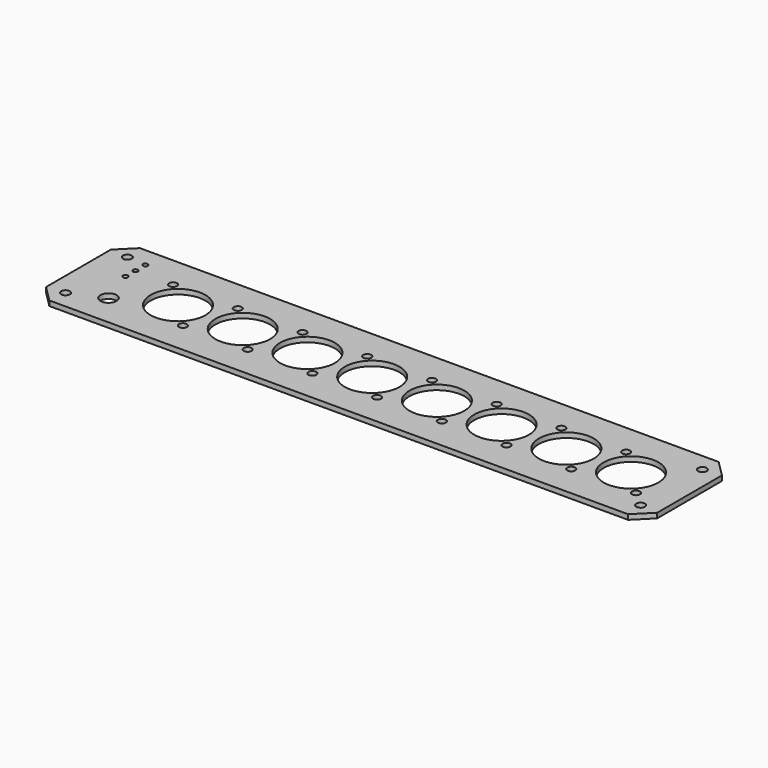
from build123d import *

# Parameters (mm, degrees)
F0_R     = 1.75
F0_R_2   = 3.25
F0_R_3   = 1.6
F0_R_4   = 1
F0_R_5   = 11
F1_DEPTH = 2


with BuildPart() as f1:
    # F0 (on Top) → F1 (new body)
    with BuildSketch(Plane.XY):
        Polygon((124.39022, 20.678444), (-108.10978, 20.678444), (-114.60978, 14.178444), (-114.60978, -18.321556), (-108.10978, -24.821556), (124.39022, -24.821556), (130.89022, -18.321556), (130.89022, 14.178444), align=None)
        with Locations((-107.35978, -17.571556)):
            Circle(F0_R, mode=Mode.SUBTRACT)
        with Locations((-94.60978, -11.971556)):
            Circle(F0_R_2, mode=Mode.SUBTRACT)
        with Locations((-64.70978, -11.971556)):
            Circle(F0_R_3, mode=Mode.SUBTRACT)
        with Locations((-38.70978, -11.971556)):
            Circle(F0_R_3, mode=Mode.SUBTRACT)
        with Locations((-12.70978, -11.971556)):
            Circle(F0_R_3, mode=Mode.SUBTRACT)
        with Locations((123.64022, -17.571556)):
            Circle(F0_R, mode=Mode.SUBTRACT)
        with Locations((13.29022, -11.971556)):
            Circle(F0_R_3, mode=Mode.SUBTRACT)
        with Locations((39.29022, -11.971556)):
            Circle(F0_R_3, mode=Mode.SUBTRACT)
        with Locations((65.29022, -11.971556)):
            Circle(F0_R_3, mode=Mode.SUBTRACT)
        with Locations((91.29022, -11.971556)):
            Circle(F0_R_3, mode=Mode.SUBTRACT)
        with Locations((117.29022, -11.971556)):
            Circle(F0_R_3, mode=Mode.SUBTRACT)
        with Locations((-99.60978, 2.828444)):
            Circle(F0_R_4, mode=Mode.SUBTRACT)
        with Locations((-74.60978, -2.071556)):
            Circle(F0_R_5, mode=Mode.SUBTRACT)
        with Locations((-99.60978, 7.828444)):
            Circle(F0_R_4, mode=Mode.SUBTRACT)
        with Locations((-84.50978, 7.828444)):
            Circle(F0_R_3, mode=Mode.SUBTRACT)
        with Locations((-58.50978, 7.828444)):
            Circle(F0_R_3, mode=Mode.SUBTRACT)
        with Locations((-48.60978, -2.071556)):
            Circle(F0_R_5, mode=Mode.SUBTRACT)
        with Locations((-22.60978, -2.071556)):
            Circle(F0_R_5, mode=Mode.SUBTRACT)
        with Locations((3.39022, -2.071556)):
            Circle(F0_R_5, mode=Mode.SUBTRACT)
        with Locations((-32.50978, 7.828444)):
            Circle(F0_R_3, mode=Mode.SUBTRACT)
        with Locations((-6.50978, 7.828444)):
            Circle(F0_R_3, mode=Mode.SUBTRACT)
        with Locations((-107.35978, 13.428444)):
            Circle(F0_R, mode=Mode.SUBTRACT)
        with Locations((-99.60978, 12.828444)):
            Circle(F0_R_4, mode=Mode.SUBTRACT)
        with Locations((29.39022, -2.071556)):
            Circle(F0_R_5, mode=Mode.SUBTRACT)
        with Locations((55.39022, -2.071556)):
            Circle(F0_R_5, mode=Mode.SUBTRACT)
        with Locations((19.49022, 7.828444)):
            Circle(F0_R_3, mode=Mode.SUBTRACT)
        with Locations((45.49022, 7.828444)):
            Circle(F0_R_3, mode=Mode.SUBTRACT)
        with Locations((81.39022, -2.071556)):
            Circle(F0_R_5, mode=Mode.SUBTRACT)
        with Locations((107.39022, -2.071556)):
            Circle(F0_R_5, mode=Mode.SUBTRACT)
        with Locations((71.49022, 7.828444)):
            Circle(F0_R_3, mode=Mode.SUBTRACT)
        with Locations((97.49022, 7.828444)):
            Circle(F0_R_3, mode=Mode.SUBTRACT)
        with Locations((123.64022, 13.428444)):
            Circle(F0_R, mode=Mode.SUBTRACT)
    extrude(amount=F1_DEPTH)


solid = f1.part
